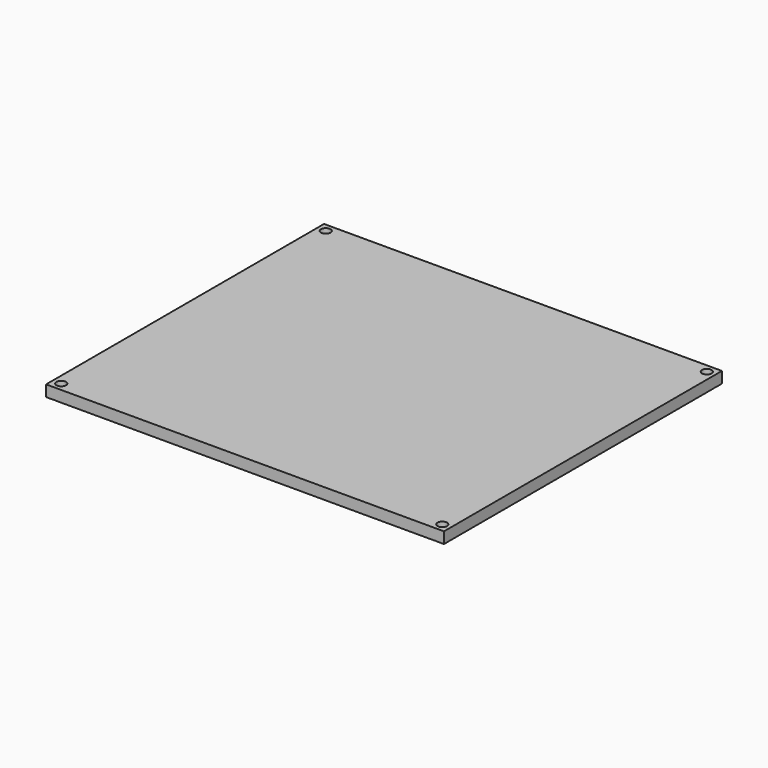
from build123d import *

# Parameters (mm, degrees)
SKETCH_W         = 142
SKETCH_H         = 124
PAD_DEPTH        = 4
HOLE_D           = 3.4
HOLE_DEPTH       = 25
HOLE_CSINK_D     = 6.1
HOLE_CSINK_ANGLE = 90


with BuildPart() as part:
    # Sketch → Pad (new body)
    with BuildSketch(Plane.XY):
        Rectangle(SKETCH_W, SKETCH_H)
    extrude(amount=PAD_DEPTH)

    # Hole
    with Locations(Plane(origin=(0, 0, 0), x_dir=(1, 0, 0), z_dir=(0, 0, -1))):
        with Locations((-68, 59), (-68, -59), (68, -59), (68, 59)):
            CounterSinkHole(HOLE_D / 2, HOLE_CSINK_D / 2, depth=HOLE_DEPTH, counter_sink_angle=HOLE_CSINK_ANGLE)


solid = part.part
